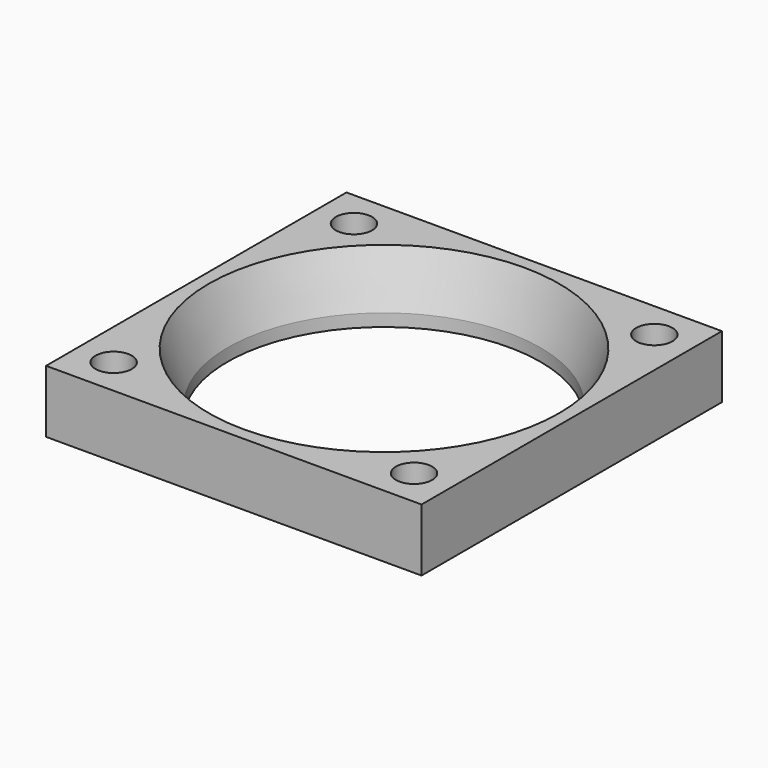
from build123d import *

# Parameters (mm, degrees)
CYLINDER004_R     = 12.5
CYLINDER004_DEPTH = 10
CYLINDER001_R     = 1.45
CYLINDER001_DEPTH = 10
CYLINDER_R        = 1.45
CYLINDER_DEPTH    = 10
CYLINDER002_R     = 1.45
CYLINDER002_DEPTH = 10
CYLINDER003_R     = 1.45
CYLINDER003_DEPTH = 10
BOX_W             = 30
BOX_H             = 30
BOX_DEPTH         = 5
CHAMFER_SIZE2     = 4
CHAMFER_SIZE      = 1.5


with BuildPart() as cylinder004:
    # Cylinder004 → Cylinder004 (new body)
    with BuildSketch(Plane.XY):
        Circle(CYLINDER004_R)
    extrude(amount=CYLINDER004_DEPTH)


with BuildPart() as cylinder001:
    # Cylinder001 → Cylinder001 (new body)
    with BuildSketch(Plane(origin=(-12, 12, 0), x_dir=(1, 0, 0), z_dir=(0, 0, 1))):
        Circle(CYLINDER001_R)
    extrude(amount=CYLINDER001_DEPTH)


with BuildPart() as cylinder:
    # Cylinder → Cylinder (new body)
    with BuildSketch(Plane(origin=(12, 12, 0), x_dir=(1, 0, 0), z_dir=(0, 0, 1))):
        Circle(CYLINDER_R)
    extrude(amount=CYLINDER_DEPTH)


with BuildPart() as cylinder002:
    # Cylinder002 → Cylinder002 (new body)
    with BuildSketch(Plane(origin=(12, -12, 0), x_dir=(1, 0, 0), z_dir=(0, 0, 1))):
        Circle(CYLINDER002_R)
    extrude(amount=CYLINDER002_DEPTH)


with BuildPart() as fusion:
    # Cylinder003 → Cylinder003 (new body)
    with BuildSketch(Plane(origin=(-12, -12, 0), x_dir=(1, 0, 0), z_dir=(0, 0, 1))):
        Circle(CYLINDER003_R)
    extrude(amount=CYLINDER003_DEPTH)

    # Fusion: union Cylinder001, Cylinder, Cylinder002
    add(cylinder001.part)
    add(cylinder.part)
    add(cylinder002.part)


with BuildPart() as fan_template:
    # Box → Box (new body)
    with BuildSketch(Plane(origin=(-15, -15, 0), x_dir=(1, 0, 0), z_dir=(0, 0, 1))):
        with Locations((15, 15)):
            Rectangle(BOX_W, BOX_H)
    extrude(amount=BOX_DEPTH)

    # Cut: cut Fusion
    add(fusion.part, mode=Mode.SUBTRACT)

    # Cut001: cut Cylinder004
    add(cylinder004.part, mode=Mode.SUBTRACT)

    # Chamfer
    chamfer_edges = [fan_template.edges().sort_by_distance(p)[0] for p in [
        (-12.5, 0, 5),
    ]]
    chamfer_side = fan_template.faces().sort_by_distance((-14.575736, 0, 5))[0]
    chamfer(chamfer_edges, length=CHAMFER_SIZE, length2=CHAMFER_SIZE2, reference=chamfer_side)


solid = fan_template.part
